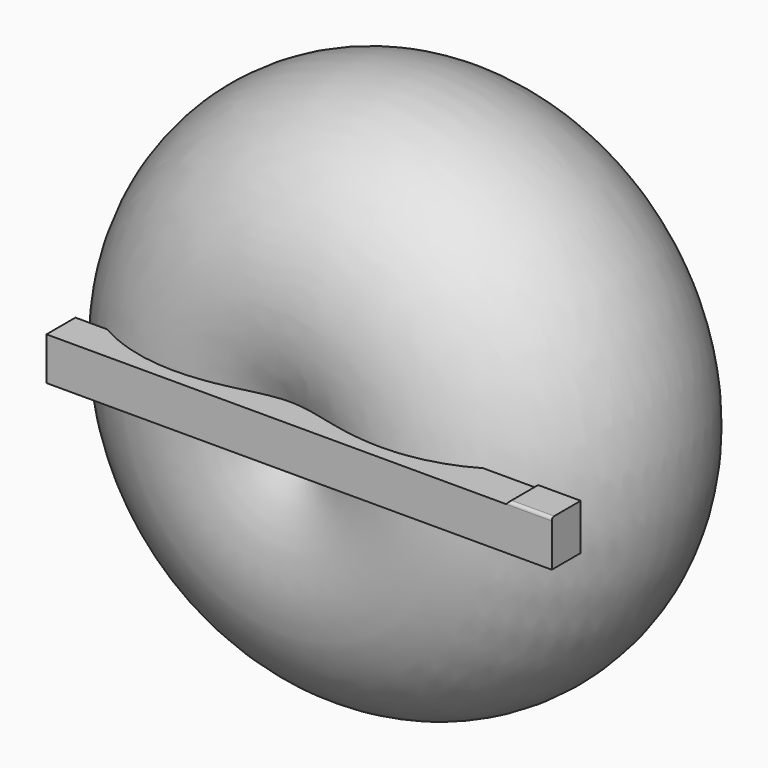
from build123d import *

# Parameters (mm, degrees)
F0_W      = 75.656738
F0_H      = 60.045026
F1_DEPTH  = 76.2
F2_SIZE   = 5.08
F3_R      = 5.08
F1_FACE_W = 60.045026
F1_FACE_H = 71.12
F4_DEPTH  = 762


with BuildPart() as f1:
    # F0 (on Top) → F1 (new body)
    with BuildSketch(Plane.XY):
        with Locations((-24.318239, 19.664746)):
            Rectangle(F0_W, F0_H)
    extrude(amount=F1_DEPTH)

    # F2
    f2_edges = [f1.edges().sort_by_distance(p)[0] for p in [
        (-62.146608, 19.664746, 76.2),
    ]]
    chamfer(f2_edges, length=F2_SIZE)

    # F3
    f3_edges = [f1.edges().sort_by_distance(p)[0] for p in [
        (-21.778239, -10.357767, 76.2),
    ]]
    fillet(f3_edges, radius=F3_R)

    # F1_face (on face) → F4 (join)
    with BuildSketch(Plane(origin=(-62.146608, 19.664746, 35.56), x_dir=(0, -1, 0), z_dir=(-1, 0, 0))):
        Rectangle(F1_FACE_W, F1_FACE_H)
    extrude(amount=F4_DEPTH)

    # F5 (on Top) → F6 (revolve)
    with BuildSketch(Plane.XY):
        with BuildLine():
            Line((-459.842354, 467.257112), (-459.842354, 88.502713))
            ThreePointArc((-459.842354, 88.502713), (-9.835758, 277.879912), (-459.842354, 467.257112))
        make_face()
    revolve(axis=Axis((-459.842354, 277.879912, 0), (0, 1, 0)))


solid = f1.part
